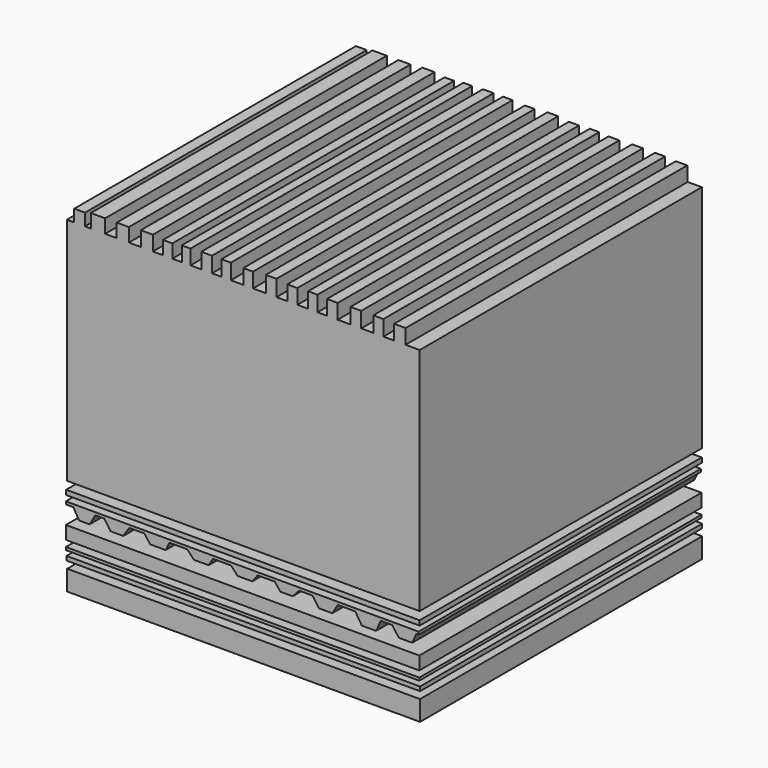
from build123d import *

# Parameters (mm, degrees)
F0_W      = 152.466349
F0_H      = 8.686692
F1_DEPTH  = 152.4
F2_W      = 152.765885
F2_H      = 1.797248
F3_DEPTH  = 152.4
F4_W      = 152.765892
F4_H      = 1.198161
F5_DEPTH  = 152.4
F6_W      = 152.765892
F6_H      = 5.691275
F7_DEPTH  = 152.4
F8_W      = 152.466349
F8_H      = 1.198165
F9_DEPTH  = 152.4
F10_W     = 152.759567
F10_H     = 2.032921
F11_DEPTH = 152.4
F12_W     = 152.46915
F12_H     = 99.322758
F13_DEPTH = 152.4
F15_DEPTH = 152.4
F17_DEPTH = 152.4
F18_W     = 4.93709
F18_H     = 6.389186
F18_W_2   = 4.356266
F18_H_2   = 6.679602
F18_W_3   = 4.646678
F18_W_4   = 4.065841
F18_W_5   = 4.356261
F18_W_6   = 4.64668
F18_H_3   = 6.970018
F18_W_7   = 4.211054
F18_W_8   = 4.065844
F18_W_9   = 4.646679
F18_W_10  = 3.775427
F18_W_11  = 4.065846
F18_H_4   = 5.808354
F18_W_12  = 5.227514
F18_W_13  = 5.232293
F18_H_5   = 5.907856
F18_W_14  = 6.204977
F19_DEPTH = 152.14629


with BuildPart() as f1:
    # F0 (on Front) → F1 (new body)
    with BuildSketch(Plane.XZ):
        with Locations((0.177506, -71.587801)):
            Rectangle(F0_W, F0_H)
    extrude(amount=F1_DEPTH)


with BuildPart() as f3:
    # F2 (on Front) → F3 (new body)
    with BuildSketch(Plane.XZ):
        with Locations((0.027738, -63.35043)):
            Rectangle(F2_W, F2_H)
    extrude(amount=F3_DEPTH)


with BuildPart() as f5:
    # F4 (on Front) → F5 (new body)
    with BuildSketch(Plane.XZ):
        with Locations((-0.271801, -59.755934)):
            Rectangle(F4_W, F4_H)
    extrude(amount=F5_DEPTH)


with BuildPart() as f7:
    # F6 (on Front) → F7 (new body)
    with BuildSketch(Plane.XZ):
        with Locations((-0.271801, -53.615347)):
            Rectangle(F6_W, F6_H)
    extrude(amount=F7_DEPTH)


with BuildPart() as f9:
    # F8 (on Front) → F9 (new body)
    with BuildSketch(Plane.XZ):
        with Locations((-0.421573, -42.38256)):
            Rectangle(F8_W, F8_H)
    extrude(amount=F9_DEPTH)

    # F14 (on Front) → F15 (join)
    with BuildSketch(Plane.XZ):
        Polygon((-73.59764, -42.546153), (-70.983887, -47.192831), (-66.337205, -47.192831), (-63.723452, -42.546153), align=None)
    extrude(amount=F15_DEPTH)

    # F16 (on Front) → F17 (join)
    with BuildSketch(Plane.XZ):
        Polygon((-31.601598, -42.4847), (-60.238443, -42.546153), (-57.334267, -46.902414), (-51.816337, -46.902414), (-49.202576, -42.836569), (-42.813394, -42.836569), (-40.199637, -46.321578), (-33.520035, -46.321578), align=None)
        Polygon((75.096078, -42.255733), (-5.770196, -42.429267), (-2.445373, -46.031162), (3.943812, -46.031162), (6.557568, -42.546153), (13.237167, -42.546153), (16.141344, -46.031162), (21.368856, -46.031162), (24.27303, -42.836569), (29.79096, -42.836569), (32.695133, -46.902414), (38.503487, -46.902414), (41.117243, -42.546153), (48.087258, -42.546153), (51.281851, -47.483247), (57.380613, -47.483247), (59.703961, -42.546153), (64.060219, -42.546153), (67.254812, -46.902414), (73.063157, -46.902414), align=None)
        Polygon((-12.609982, -42.255733), (-12.725958, -42.444194), (-5.770196, -42.429267), (-5.930381, -42.255733), align=None)
        Polygon((-12.725958, -42.444194), (-24.61001, -42.469697), (-21.322506, -46.031162), (-14.933323, -46.031162), align=None)
        Polygon((-31.487115, -42.255733), (-31.601598, -42.4847), (-24.61001, -42.469697), (-24.807515, -42.255733), align=None)
    extrude(amount=F17_DEPTH)


with BuildPart() as f11:
    # F10 (on Front) → F11 (new body)
    with BuildSketch(Plane.XZ):
        with Locations((-0.122034, -38.335099)):
            Rectangle(F10_W, F10_H)
    extrude(amount=F11_DEPTH)


with BuildPart() as f13:
    # F12 (on Front) → F13 (new body)
    with BuildSketch(Plane.XZ):
        with Locations((0.023175, 15.827749)):
            Rectangle(F12_W, F12_H)
    extrude(amount=F13_DEPTH)

    # F18 (on face) → F19 (join)
    with BuildSketch(Plane.XZ.offset(152.4)):
        with Locations((67.690436, 68.683721)):
            Rectangle(F18_W, F18_H)
        with Locations((58.397077, 68.828929)):
            Rectangle(F18_W_2, F18_H_2)
        with Locations((48.668092, 68.828929)):
            Rectangle(F18_W_3, F18_H_2)
        with Locations((38.503485, 68.683721)):
            Rectangle(F18_W_3, F18_H)
        with Locations((30.081376, 68.828929)):
            Rectangle(F18_W_4, F18_H_2)
        with Locations((21.223647, 68.683721)):
            Rectangle(F18_W_5, F18_H)
        with Locations((12.075499, 68.974137)):
            Rectangle(F18_W_6, F18_H_3)
        with Locations((2.128702, 68.683721)):
            Rectangle(F18_W_7, F18_H)
        with Locations((-7.382469, 68.828929)):
            Rectangle(F18_W_8, F18_H_2)
        with Locations((-15.804574, 68.828929)):
            Rectangle(F18_W_9, F18_H_2)
        with Locations((-24.662305, 68.683721)):
            Rectangle(F18_W_10, F18_H)
        with Locations((-32.648785, 68.393305)):
            Rectangle(F18_W_11, F18_H_4)
        with Locations((-41.651726, 68.683721)):
            Rectangle(F18_W_12, F18_H)
        with Locations((-52.034377, 68.443056)):
            Rectangle(F18_W_13, F18_H_5)
        with Locations((-62.760092, 68.443056)):
            Rectangle(F18_W_14, F18_H_5)
        Polygon((-73.016807, 70.716642), (-73.016807, 65.489128), (-68.405047, 65.489128), (-68.370126, 65.489128), (-68.370126, 70.716642), align=None)
    extrude(amount=-F19_DEPTH)


solid = Compound([f1.part, f3.part, f5.part, f7.part, f9.part, f11.part, f13.part])
